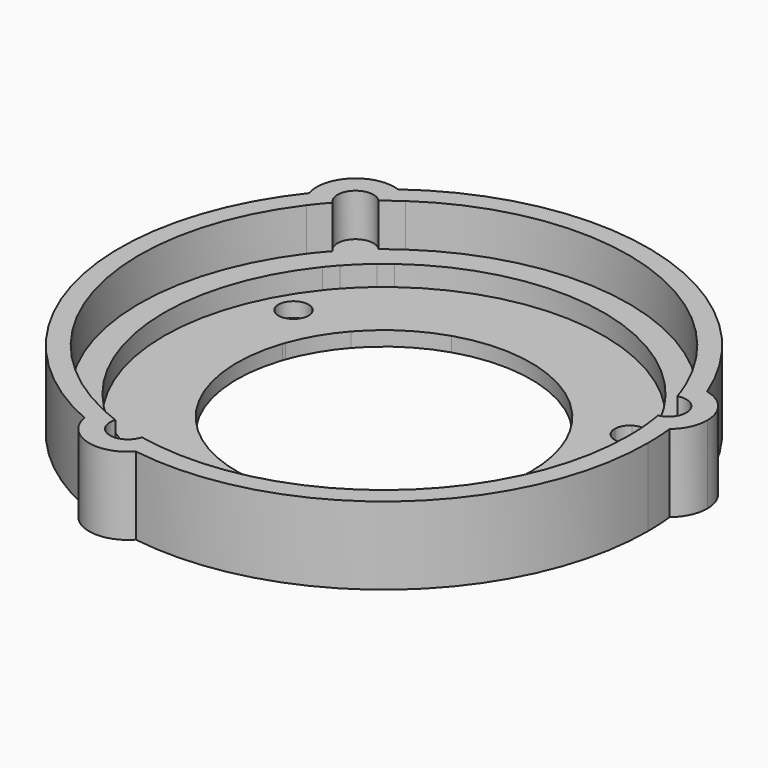
from build123d import *

# Parameters (mm, degrees)
F1_DEPTH = 8
F2_DEPTH = 3.6
F3_DEPTH = 1.5


with BuildPart() as f1:
    # F0 (on Top) → F1 (new body)
    with BuildSketch(Plane.XY):
        with BuildLine():
            ThreePointArc((27.0364767247, 2.9780742632), (26.1341223039, 2.4068562861), (25.1127851839, 2.0947602024))
            ThreePointArc((25.1127851839, 2.0947602024), (25.1781868552, 1.0482874999), (25.2, 0))
            ThreePointArc((25.2, 0), (16.6941580485, -18.8771048376), (-3.0813561151, -25.0109025125))
            ThreePointArc((-3.0813561151, -25.0109025125), (-3.4334013112, -26.0191671891), (-4.0396855828, -26.898344566))
            ThreePointArc((-4.0396855828, -26.898344566), (17.7476836819, -20.6121256528), (27.2, 0))
            ThreePointArc((27.2, 0), (27.1590884136, 1.4912801698), (27.0364767247, 2.9780742632))
        make_face()
        with BuildLine():
            ThreePointArc((24.8423019408, 4.2308432119), (25.0003678986, 3.1656918572), (25.1127851839, 2.0947602024))
            ThreePointArc((25.1127851839, 2.0947602024), (26.1341223039, 2.4068562861), (27.0364767247, 2.9780742632))
            ThreePointArc((27.0364767247, 2.9780742632), (26.4066351326, 6.5214738344), (25.3144925053, 9.950701945))
            ThreePointArc((25.3144925053, 9.950701945), (24.2499604267, 10.0361708376), (23.200755005, 9.8369185825))
            ThreePointArc((23.200755005, 9.8369185825), (23.5998169521, 8.8367776835), (23.9557875207, 7.8205015352))
            ThreePointArc((23.9557875207, 7.8205015352), (25.5786383656, 7.5191959001), (26.3149707846, 6.0419536996))
            ThreePointArc((26.3149707846, 6.0419536996), (25.900338793, 4.8748124568), (24.8423019408, 4.2308432119))
        make_face()
        with BuildLine():
            ThreePointArc((-14.3705081421, 20.7009298279), (7, 24.2082630521), (23.200755005, 9.8369185825))
            ThreePointArc((23.200755005, 9.8369185825), (24.2499604267, 10.0361708376), (25.3144925053, 9.950701945))
            ThreePointArc((25.3144925053, 9.950701945), (7.5555555556, 26.1295537705), (-16.0973263286, 21.9252385408))
            ThreePointArc((-16.0973263286, 21.9252385408), (-15.1514598389, 21.4293856778), (-14.3705081421, 20.7009298279))
        make_face()
        with BuildLine():
            ThreePointArc((25.3144925053, 9.950701945), (26.4066351326, 6.5214738344), (27.0364767247, 2.9780742632))
            ThreePointArc((27.0364767247, 2.9780742632), (28.0902999945, 4.3516909626), (28.4649707846, 6.0419536996))
            ThreePointArc((28.4649707846, 6.0419536996), (27.5792995151, 8.552124323), (25.3144925053, 9.950701945))
        make_face()
        with BuildLine():
            ThreePointArc((-16.0851686713, 19.3986429633), (-15.2417535182, 20.0681077755), (-14.3705081421, 20.7009298279))
            ThreePointArc((-14.3705081421, 20.7009298279), (-15.1514598389, 21.4293856778), (-16.0973263286, 21.9252385408))
            ThreePointArc((-16.0973263286, 21.9252385408), (-18.8510795771, 19.6080799361), (-21.2748069225, 16.947642621))
            ThreePointArc((-21.2748069225, 16.947642621), (-20.8165591154, 15.9829963515), (-20.1193988899, 15.1739839301))
            ThreePointArc((-20.1193988899, 15.1739839301), (-19.4527824376, 16.0196521634), (-18.7506467602, 16.836069793))
            ThreePointArc((-18.7506467602, 16.836069793), (-18.7471214176, 19.4999471423), (-16.0851686713, 19.3986429633))
        make_face()
        with BuildLine():
            ThreePointArc((-4.0396855828, -26.898344566), (-3.4334013112, -26.0191671891), (-3.0813561151, -25.0109025125))
            ThreePointArc((-3.0813561151, -25.0109025125), (-4.1470345145, -24.8564298469), (-5.2051407605, -24.6565713282))
            ThreePointArc((-5.2051407605, -24.6565713282), (-7.5138888889, -25.9854569666), (-8.7571332695, -23.6294861751))
            ThreePointArc((-8.7571332695, -23.6294861751), (-9.7586143804, -23.2337996328), (-10.7422770419, -22.7956900303))
            ThreePointArc((-10.7422770419, -22.7956900303), (-10.982662465, -23.8362419638), (-10.939150396, -24.903312804))
            ThreePointArc((-10.939150396, -24.903312804), (-7.5555555556, -26.1295537705), (-4.0396855828, -26.898344566))
        make_face()
        with BuildLine():
            ThreePointArc((-21.2748069225, 16.947642621), (-18.8510795771, 19.6080799361), (-16.0973263286, 21.9252385408))
            ThreePointArc((-16.0973263286, 21.9252385408), (-20.2371883695, 21.0498505196), (-21.2748069225, 16.947642621))
        make_face()
        with BuildLine():
            ThreePointArc((-10.939150396, -24.903312804), (-8.1111111111, -28.0508444889), (-4.0396855828, -26.898344566))
            ThreePointArc((-4.0396855828, -26.898344566), (-7.5555555556, -26.1295537705), (-10.939150396, -24.903312804))
        make_face()
        with BuildLine():
            ThreePointArc((-20.1193988899, 15.1739839301), (-20.8165591154, 15.9829963515), (-21.2748069225, 16.947642621))
            ThreePointArc((-21.2748069225, 16.947642621), (-26.4066351326, -6.5214738344), (-10.939150396, -24.903312804))
            ThreePointArc((-10.939150396, -24.903312804), (-10.982662465, -23.8362419638), (-10.7422770419, -22.7956900303))
            ThreePointArc((-10.7422770419, -22.7956900303), (-24.4649707846, -6.0419536996), (-20.1193988899, 15.1739839301))
        make_face()
    extrude(amount=F1_DEPTH)

    # F0 (on Top) → F2 (join)
    with BuildSketch(Plane.XY):
        with BuildLine():
            ThreePointArc((-10.7422770419, -22.7956900303), (-10.0639016887, -21.6367836254), (-9.0402136666, -20.767692141))
            ThreePointArc((-9.0402136666, -20.767692141), (-21.9893487409, -5.4305655276), (-17.6689202587, 14.1715121597))
            ThreePointArc((-17.6689202587, 14.1715121597), (-18.97950636, 14.4641232428), (-20.1193988899, 15.1739839301))
            ThreePointArc((-20.1193988899, 15.1739839301), (-24.4649707846, -6.0419536996), (-10.7422770419, -22.7956900303))
        make_face()
        with BuildLine():
            ThreePointArc((-17.6689202587, 14.1715121597), (-17.2155454564, 14.718950188), (-16.745216364, 15.2518926342))
            Line((-16.745216364, 15.2518926342), (-17.0214146599, 16.3702698307))
            ThreePointArc((-17.0214146599, 16.3702698307), (-17.9461504413, 16.3799817964), (-18.7506467602, 16.836069793))
            ThreePointArc((-18.7506467602, 16.836069793), (-19.4527824376, 16.0196521634), (-20.1193988899, 15.1739839301))
            ThreePointArc((-20.1193988899, 15.1739839301), (-18.97950636, 14.4641232428), (-17.6689202587, 14.1715121597))
        make_face()
        with BuildLine():
            ThreePointArc((-14.581134659, 17.3324266061), (-14.0300969902, 17.7814194722), (-13.4652421387, 18.2129007614))
            ThreePointArc((-13.4652421387, 18.2129007614), (-13.7060534314, 19.5339863363), (-14.3705081421, 20.7009298279))
            ThreePointArc((-14.3705081421, 20.7009298279), (-15.2417535182, 20.0681077755), (-16.0851686713, 19.3986429633))
            ThreePointArc((-16.0851686713, 19.3986429633), (-15.7365128144, 18.8258038902), (-15.6149707846, 18.1663093525))
            ThreePointArc((-15.6149707846, 18.1663093525), (-15.6332627372, 17.9067989885), (-15.6877768701, 17.6524204637))
            Line((-15.6877768701, 17.6524204637), (-14.581134659, 17.3324266061))
        make_face()
        with BuildLine():
            ThreePointArc((-16.745216364, 15.2518926342), (-15.6976820743, 16.3280518585), (-14.581134659, 17.3324266061))
            Line((-14.581134659, 17.3324266061), (-15.6877768701, 17.6524204637))
            ThreePointArc((-15.6877768701, 17.6524204637), (-16.1828201516, 16.8326715628), (-17.0214146599, 16.3702698307))
            Line((-17.0214146599, 16.3702698307), (-16.745216364, 15.2518926342))
        make_face()
        with BuildLine():
            ThreePointArc((-17.0214146599, 16.3702698307), (-16.1828201516, 16.8326715628), (-15.6877768701, 17.6524204637))
            Line((-15.6877768701, 17.6524204637), (-17.4649707846, 18.1663093525))
            Line((-17.4649707846, 18.1663093525), (-17.0214146599, 16.3702698307))
        make_face()
        with BuildLine():
            ThreePointArc((-18.7506467602, 16.836069793), (-17.9461504413, 16.3799817964), (-17.0214146599, 16.3702698307))
            Line((-17.0214146599, 16.3702698307), (-17.4649707846, 18.1663093525))
            ThreePointArc((-17.4649707846, 18.1663093525), (-18.1200199464, 17.5129916673), (-18.7506467602, 16.836069793))
        make_face()
        with BuildLine():
            Line((-17.4649707846, 18.1663093525), (-15.6877768701, 17.6524204637))
            ThreePointArc((-15.6877768701, 17.6524204637), (-15.6332627372, 17.9067989885), (-15.6149707846, 18.1663093525))
            ThreePointArc((-15.6149707846, 18.1663093525), (-15.7365128144, 18.8258038902), (-16.0851686713, 19.3986429633))
            ThreePointArc((-16.0851686713, 19.3986429633), (-16.7863821567, 18.7951423003), (-17.4649707846, 18.1663093525))
        make_face()
        with BuildLine():
            ThreePointArc((-17.4649707846, 18.1663093525), (-16.7863821567, 18.7951423003), (-16.0851686713, 19.3986429633))
            ThreePointArc((-16.0851686713, 19.3986429633), (-18.7471214176, 19.4999471423), (-18.7506467602, 16.836069793))
            ThreePointArc((-18.7506467602, 16.836069793), (-18.1200199464, 17.5129916673), (-17.4649707846, 18.1663093525))
        make_face()
        with BuildLine():
            ThreePointArc((-13.4652421387, 18.2129007614), (6.2916666667, 21.7586173861), (21.1073496697, 8.2159777216))
            ThreePointArc((21.1073496697, 8.2159777216), (22.0160513518, 9.2046730376), (23.200755005, 9.8369185825))
            ThreePointArc((23.200755005, 9.8369185825), (7, 24.2082630521), (-14.3705081421, 20.7009298279))
            ThreePointArc((-14.3705081421, 20.7009298279), (-13.7060534314, 19.5339863363), (-13.4652421387, 18.2129007614))
        make_face()
        with BuildLine():
            ThreePointArc((21.1073496697, 8.2159777216), (21.3547575081, 7.5496246113), (21.581134659, 6.875836446))
            Line((21.581134659, 6.875836446), (22.6877768701, 6.5558425885))
            ThreePointArc((22.6877768701, 6.5558425885), (23.1585555698, 7.3518312841), (23.9557875207, 7.8205015352))
            ThreePointArc((23.9557875207, 7.8205015352), (23.5998169521, 8.8367776835), (23.200755005, 9.8369185825))
            ThreePointArc((23.200755005, 9.8369185825), (22.0160513518, 9.2046730376), (21.1073496697, 8.2159777216))
        make_face()
        with BuildLine():
            ThreePointArc((23.9557875207, 7.8205015352), (23.1585555698, 7.3518312841), (22.6877768701, 6.5558425885))
            Line((22.6877768701, 6.5558425885), (24.4649707846, 6.0419536996))
            ThreePointArc((24.4649707846, 6.0419536996), (24.2267056534, 6.935901757), (23.9557875207, 7.8205015352))
        make_face()
        with BuildLine():
            ThreePointArc((22.6877768701, 6.5558425885), (22.6689312627, 5.5983975748), (23.1313329949, 4.7598030666))
            Line((23.1313329949, 4.7598030666), (24.4649707846, 6.0419536996))
            Line((24.4649707846, 6.0419536996), (22.6877768701, 6.5558425885))
        make_face()
        with BuildLine():
            ThreePointArc((23.9557875207, 7.8205015352), (24.2267056534, 6.935901757), (24.4649707846, 6.0419536996))
            ThreePointArc((24.4649707846, 6.0419536996), (24.6702617782, 5.1398622351), (24.8423019408, 4.2308432119))
            ThreePointArc((24.8423019408, 4.2308432119), (25.900338793, 4.8748124568), (26.3149707846, 6.0419536996))
            ThreePointArc((26.3149707846, 6.0419536996), (25.5786383656, 7.5191959001), (23.9557875207, 7.8205015352))
        make_face()
        with BuildLine():
            ThreePointArc((21.581134659, 6.875836446), (21.9893487409, 5.4305655276), (22.3008890796, 3.9614197276))
            Line((22.3008890796, 3.9614197276), (23.1313329949, 4.7598030666))
            ThreePointArc((23.1313329949, 4.7598030666), (22.6689312627, 5.5983975748), (22.6877768701, 6.5558425885))
            Line((22.6877768701, 6.5558425885), (21.581134659, 6.875836446))
        make_face()
        with BuildLine():
            Line((24.4649707846, 6.0419536996), (23.1313329949, 4.7598030666))
            ThreePointArc((23.1313329949, 4.7598030666), (23.9185458343, 4.2744923072), (24.8423019408, 4.2308432119))
            ThreePointArc((24.8423019408, 4.2308432119), (24.6702617782, 5.1398622351), (24.4649707846, 6.0419536996))
        make_face()
        with BuildLine():
            Line((23.1313329949, 4.7598030666), (22.3008890796, 3.9614197276))
            ThreePointArc((22.3008890796, 3.9614197276), (22.4142094734, 3.259710675), (22.5054558054, 2.5547913796))
            ThreePointArc((22.5054558054, 2.5547913796), (23.7699551202, 2.1027972891), (25.1127851839, 2.0947602024))
            ThreePointArc((25.1127851839, 2.0947602024), (25.0003678986, 3.1656918572), (24.8423019408, 4.2308432119))
            ThreePointArc((24.8423019408, 4.2308432119), (23.9185458343, 4.2744923072), (23.1313329949, 4.7598030666))
        make_face()
        with BuildLine():
            ThreePointArc((25.1127851839, 2.0947602024), (23.7699551202, 2.1027972891), (22.5054558054, 2.5547913796))
            ThreePointArc((22.5054558054, 2.5547913796), (22.6138350793, 1.2794385504), (22.65, 0))
            ThreePointArc((22.65, 0), (14.7502893843, -17.1887016112), (-3.438429411, -22.3874898813))
            ThreePointArc((-3.438429411, -22.3874898813), (-3.11115169, -23.2718556504), (-3, -24.2082630521))
            ThreePointArc((-3, -24.2082630521), (-3.0203910029, -24.6116390928), (-3.0813561151, -25.0109025125))
            ThreePointArc((-3.0813561151, -25.0109025125), (16.6941580485, -18.8771048376), (25.2, 0))
            ThreePointArc((25.2, 0), (25.1781868552, 1.0482874999), (25.1127851839, 2.0947602024))
        make_face()
        with BuildLine():
            ThreePointArc((-3, -24.2082630521), (-3.11115169, -23.2718556504), (-3.438429411, -22.3874898813))
            ThreePointArc((-3.438429411, -22.3874898813), (-4.1392120516, -22.2685747993), (-4.835918295, -22.1277290801))
            Line((-4.835918295, -22.1277290801), (-5.6663622102, -22.9261124191))
            ThreePointArc((-5.6663622102, -22.9261124191), (-5.2839391166, -23.5171515962), (-5.15, -24.2082630521))
            ThreePointArc((-5.15, -24.2082630521), (-5.1638369363, -24.4341063683), (-5.2051407605, -24.6565713282))
            ThreePointArc((-5.2051407605, -24.6565713282), (-4.1470345145, -24.8564298469), (-3.0813561151, -25.0109025125))
            ThreePointArc((-3.0813561151, -25.0109025125), (-3.0203910029, -24.6116390928), (-3, -24.2082630521))
        make_face()
        with BuildLine():
            Line((-5.6663622102, -22.9261124191), (-4.835918295, -22.1277290801))
            ThreePointArc((-4.835918295, -22.1277290801), (-6.2916666667, -21.7586173861), (-7.7197544207, -21.2938463337))
            Line((-7.7197544207, -21.2938463337), (-7.4435561248, -22.4122235302))
            ThreePointArc((-7.4435561248, -22.4122235302), (-6.4861111111, -22.4310691376), (-5.6663622102, -22.9261124191))
        make_face()
        with BuildLine():
            Line((-7.4435561248, -22.4122235302), (-7.7197544207, -21.2938463337))
            ThreePointArc((-7.7197544207, -21.2938463337), (-8.3841124832, -21.0411301472), (-9.0402136666, -20.767692141))
            ThreePointArc((-9.0402136666, -20.767692141), (-10.0639016887, -21.6367836254), (-10.7422770419, -22.7956900303))
            ThreePointArc((-10.7422770419, -22.7956900303), (-9.7586143804, -23.2337996328), (-8.7571332695, -23.6294861751))
            ThreePointArc((-8.7571332695, -23.6294861751), (-8.2574539909, -22.8513144677), (-7.4435561248, -22.4122235302))
        make_face()
        with BuildLine():
            Line((-7, -24.2082630521), (-7.4435561248, -22.4122235302))
            ThreePointArc((-7.4435561248, -22.4122235302), (-8.2574539909, -22.8513144677), (-8.7571332695, -23.6294861751))
            ThreePointArc((-8.7571332695, -23.6294861751), (-7.8838796215, -23.9350045355), (-7, -24.2082630521))
        make_face()
        with BuildLine():
            Line((-7, -24.2082630521), (-5.6663622102, -22.9261124191))
            ThreePointArc((-5.6663622102, -22.9261124191), (-6.4861111111, -22.4310691376), (-7.4435561248, -22.4122235302))
            Line((-7.4435561248, -22.4122235302), (-7, -24.2082630521))
        make_face()
        with BuildLine():
            ThreePointArc((-5.15, -24.2082630521), (-5.2839391166, -23.5171515962), (-5.6663622102, -22.9261124191))
            Line((-5.6663622102, -22.9261124191), (-7, -24.2082630521))
            ThreePointArc((-7, -24.2082630521), (-6.106685707, -24.4488934244), (-5.2051407605, -24.6565713282))
            ThreePointArc((-5.2051407605, -24.6565713282), (-5.1638369363, -24.4341063683), (-5.15, -24.2082630521))
        make_face()
        with BuildLine():
            ThreePointArc((-8.7571332695, -23.6294861751), (-7.5138888889, -25.9854569666), (-5.2051407605, -24.6565713282))
            ThreePointArc((-5.2051407605, -24.6565713282), (-6.106685707, -24.4488934244), (-7, -24.2082630521))
            ThreePointArc((-7, -24.2082630521), (-7.8838796215, -23.9350045355), (-8.7571332695, -23.6294861751))
        make_face()
    extrude(amount=F2_DEPTH)

    # F0 (on Top) → F3 (join)
    with BuildSketch(Plane.XY):
        with BuildLine():
            ThreePointArc((27.0364767247, 2.9780742632), (26.1341223039, 2.4068562861), (25.1127851839, 2.0947602024))
            ThreePointArc((25.1127851839, 2.0947602024), (25.1781868552, 1.0482874999), (25.2, 0))
            ThreePointArc((25.2, 0), (16.6941580485, -18.8771048376), (-3.0813561151, -25.0109025125))
            ThreePointArc((-3.0813561151, -25.0109025125), (-3.4334013112, -26.0191671891), (-4.0396855828, -26.898344566))
            ThreePointArc((-4.0396855828, -26.898344566), (17.7476836819, -20.6121256528), (27.2, 0))
            ThreePointArc((27.2, 0), (27.1590884136, 1.4912801698), (27.0364767247, 2.9780742632))
        make_face()
        with BuildLine():
            ThreePointArc((24.8423019408, 4.2308432119), (25.0003678986, 3.1656918572), (25.1127851839, 2.0947602024))
            ThreePointArc((25.1127851839, 2.0947602024), (26.1341223039, 2.4068562861), (27.0364767247, 2.9780742632))
            ThreePointArc((27.0364767247, 2.9780742632), (26.4066351326, 6.5214738344), (25.3144925053, 9.950701945))
            ThreePointArc((25.3144925053, 9.950701945), (24.2499604267, 10.0361708376), (23.200755005, 9.8369185825))
            ThreePointArc((23.200755005, 9.8369185825), (23.5998169521, 8.8367776835), (23.9557875207, 7.8205015352))
            ThreePointArc((23.9557875207, 7.8205015352), (25.5786383656, 7.5191959001), (26.3149707846, 6.0419536996))
            ThreePointArc((26.3149707846, 6.0419536996), (25.900338793, 4.8748124568), (24.8423019408, 4.2308432119))
        make_face()
        with BuildLine():
            ThreePointArc((-14.3705081421, 20.7009298279), (7, 24.2082630521), (23.200755005, 9.8369185825))
            ThreePointArc((23.200755005, 9.8369185825), (24.2499604267, 10.0361708376), (25.3144925053, 9.950701945))
            ThreePointArc((25.3144925053, 9.950701945), (7.5555555556, 26.1295537705), (-16.0973263286, 21.9252385408))
            ThreePointArc((-16.0973263286, 21.9252385408), (-15.1514598389, 21.4293856778), (-14.3705081421, 20.7009298279))
        make_face()
        with BuildLine():
            ThreePointArc((25.3144925053, 9.950701945), (26.4066351326, 6.5214738344), (27.0364767247, 2.9780742632))
            ThreePointArc((27.0364767247, 2.9780742632), (28.0902999945, 4.3516909626), (28.4649707846, 6.0419536996))
            ThreePointArc((28.4649707846, 6.0419536996), (27.5792995151, 8.552124323), (25.3144925053, 9.950701945))
        make_face()
        with BuildLine():
            ThreePointArc((-16.0851686713, 19.3986429633), (-15.2417535182, 20.0681077755), (-14.3705081421, 20.7009298279))
            ThreePointArc((-14.3705081421, 20.7009298279), (-15.1514598389, 21.4293856778), (-16.0973263286, 21.9252385408))
            ThreePointArc((-16.0973263286, 21.9252385408), (-18.8510795771, 19.6080799361), (-21.2748069225, 16.947642621))
            ThreePointArc((-21.2748069225, 16.947642621), (-20.8165591154, 15.9829963515), (-20.1193988899, 15.1739839301))
            ThreePointArc((-20.1193988899, 15.1739839301), (-19.4527824376, 16.0196521634), (-18.7506467602, 16.836069793))
            ThreePointArc((-18.7506467602, 16.836069793), (-18.7471214176, 19.4999471423), (-16.0851686713, 19.3986429633))
        make_face()
        with BuildLine():
            ThreePointArc((-4.0396855828, -26.898344566), (-3.4334013112, -26.0191671891), (-3.0813561151, -25.0109025125))
            ThreePointArc((-3.0813561151, -25.0109025125), (-4.1470345145, -24.8564298469), (-5.2051407605, -24.6565713282))
            ThreePointArc((-5.2051407605, -24.6565713282), (-7.5138888889, -25.9854569666), (-8.7571332695, -23.6294861751))
            ThreePointArc((-8.7571332695, -23.6294861751), (-9.7586143804, -23.2337996328), (-10.7422770419, -22.7956900303))
            ThreePointArc((-10.7422770419, -22.7956900303), (-10.982662465, -23.8362419638), (-10.939150396, -24.903312804))
            ThreePointArc((-10.939150396, -24.903312804), (-7.5555555556, -26.1295537705), (-4.0396855828, -26.898344566))
        make_face()
        with BuildLine():
            ThreePointArc((-21.2748069225, 16.947642621), (-18.8510795771, 19.6080799361), (-16.0973263286, 21.9252385408))
            ThreePointArc((-16.0973263286, 21.9252385408), (-20.2371883695, 21.0498505196), (-21.2748069225, 16.947642621))
        make_face()
        with BuildLine():
            ThreePointArc((-10.939150396, -24.903312804), (-8.1111111111, -28.0508444889), (-4.0396855828, -26.898344566))
            ThreePointArc((-4.0396855828, -26.898344566), (-7.5555555556, -26.1295537705), (-10.939150396, -24.903312804))
        make_face()
        with BuildLine():
            ThreePointArc((-20.1193988899, 15.1739839301), (-20.8165591154, 15.9829963515), (-21.2748069225, 16.947642621))
            ThreePointArc((-21.2748069225, 16.947642621), (-26.4066351326, -6.5214738344), (-10.939150396, -24.903312804))
            ThreePointArc((-10.939150396, -24.903312804), (-10.982662465, -23.8362419638), (-10.7422770419, -22.7956900303))
            ThreePointArc((-10.7422770419, -22.7956900303), (-24.4649707846, -6.0419536996), (-20.1193988899, 15.1739839301))
        make_face()
        with BuildLine():
            Line((-16.5059305148, 14.2829806566), (-16.745216364, 15.2518926342))
            ThreePointArc((-16.745216364, 15.2518926342), (-17.2155454564, 14.718950188), (-17.6689202587, 14.1715121597))
            ThreePointArc((-17.6689202587, 14.1715121597), (-17.0833337399, 14.1845568281), (-16.5059305148, 14.2829806566))
        make_face()
        with BuildLine():
            Line((-13.6223893478, 17.0551982414), (-14.581134659, 17.3324266061))
            ThreePointArc((-14.581134659, 17.3324266061), (-15.6976820743, 16.3280518585), (-16.745216364, 15.2518926342))
            Line((-16.745216364, 15.2518926342), (-16.5059305148, 14.2829806566))
            ThreePointArc((-16.5059305148, 14.2829806566), (-14.6927531998, 15.2827681855), (-13.6223893478, 17.0551982414))
        make_face()
        with BuildLine():
            ThreePointArc((-13.4649707846, 18.1663093525), (-13.4650386237, 18.1896054521), (-13.4652421387, 18.2129007614))
            ThreePointArc((-13.4652421387, 18.2129007614), (-14.0300969902, 17.7814194722), (-14.581134659, 17.3324266061))
            Line((-14.581134659, 17.3324266061), (-13.6223893478, 17.0551982414))
            ThreePointArc((-13.6223893478, 17.0551982414), (-13.5045209524, 17.6052058627), (-13.4649707846, 18.1663093525))
        make_face()
        with BuildLine():
            ThreePointArc((18.0429103508, 8.628637556), (18.2366049524, 8.2113482334), (18.4206502026, 7.7897141226))
            Line((18.4206502026, 7.7897141226), (20.6223893478, 7.1530648107))
            ThreePointArc((20.6223893478, 7.1530648107), (20.8258534245, 7.7023225861), (21.1073496697, 8.2159777216))
            ThreePointArc((21.1073496697, 8.2159777216), (6.2916666667, 21.7586173861), (-13.4652421387, 18.2129007614))
            ThreePointArc((-13.4652421387, 18.2129007614), (-13.4650386237, 18.1896054521), (-13.4649707846, 18.1663093525))
            ThreePointArc((-13.4649707846, 18.1663093525), (-13.5045209524, 17.6052058627), (-13.6223893478, 17.0551982414))
            Line((-13.6223893478, 17.0551982414), (-11.4206502026, 16.4185489295))
            ThreePointArc((-11.4206502026, 16.4185489295), (3.5994314235, 19.6734362384), (16.4940744989, 11.311299944))
            ThreePointArc((16.4940744989, 11.311299944), (18.0693498333, 11.357105752), (18.8705080757, 10))
            ThreePointArc((18.8705080757, 10), (18.6475769372, 9.199132822), (18.0429103508, 8.628637556))
        make_face()
        with BuildLine():
            ThreePointArc((-15.9564154197, 12.0578939684), (-13.8610879243, 14.4177058354), (-11.4206502026, 16.4185489295))
            Line((-11.4206502026, 16.4185489295), (-13.6223893478, 17.0551982414))
            ThreePointArc((-13.6223893478, 17.0551982414), (-14.6927531998, 15.2827681855), (-16.5059305148, 14.2829806566))
            Line((-16.5059305148, 14.2829806566), (-15.9564154197, 12.0578939684))
        make_face()
        with BuildLine():
            Line((-7.9590402698, -20.3249343561), (-8.5085553649, -18.0998476679))
            ThreePointArc((-8.5085553649, -18.0998476679), (-18.837411274, -6.7195190673), (-18.0429103508, 8.628637556))
            ThreePointArc((-18.0429103508, 8.628637556), (-18.6628474516, 10.775), (-16.4940744989, 11.311299944))
            ThreePointArc((-16.4940744989, 11.311299944), (-16.2295386456, 11.6876890509), (-15.9564154197, 12.0578939684))
            Line((-15.9564154197, 12.0578939684), (-16.5059305148, 14.2829806566))
            ThreePointArc((-16.5059305148, 14.2829806566), (-17.0833337399, 14.1845568281), (-17.6689202587, 14.1715121597))
            ThreePointArc((-17.6689202587, 14.1715121597), (-21.9893487409, -5.4305655276), (-9.0402136666, -20.767692141))
            ThreePointArc((-9.0402136666, -20.767692141), (-8.5158791699, -20.5066268811), (-7.9590402698, -20.3249343561))
        make_face()
        with BuildLine():
            ThreePointArc((-18.0429103508, 8.628637556), (-18.837411274, -6.7195190673), (-8.5085553649, -18.0998476679))
            Line((-8.5085553649, -18.0998476679), (-10.2156129312, -11.1876607224))
            ThreePointArc((-10.2156129312, -11.1876607224), (-14.6705679763, -3.7811288332), (-14.3506516514, 4.8560577819))
            Line((-14.3506516514, 4.8560577819), (-16.5455080757, 8.6576606241))
            ThreePointArc((-16.5455080757, 8.6576606241), (-17.2904711853, 8.4502910644), (-18.0429103508, 8.628637556))
        make_face()
        with BuildLine():
            ThreePointArc((-14.3506516514, 4.8560577819), (-14.300738096, 5.0011388614), (-14.2493578534, 5.1457070229))
            Line((-14.2493578534, 5.1457070229), (-15.4481908163, 10))
            Line((-15.4481908163, 10), (-15.7705080757, 10))
            ThreePointArc((-15.7705080757, 10), (-15.9781686998, 9.225), (-16.5455080757, 8.6576606241))
            Line((-16.5455080757, 8.6576606241), (-14.3506516514, 4.8560577819))
        make_face()
        with BuildLine():
            Line((-15.4481908163, 10), (-15.9564154197, 12.0578939684))
            ThreePointArc((-15.9564154197, 12.0578939684), (-16.2295386456, 11.6876890509), (-16.4940744989, 11.311299944))
            ThreePointArc((-16.4940744989, 11.311299944), (-15.9634023237, 10.7488417577), (-15.7705080757, 10))
            Line((-15.7705080757, 10), (-15.4481908163, 10))
        make_face()
        with BuildLine():
            Line((-4.5809919289, 14.4408106749), (-11.4206502026, 16.4185489295))
            ThreePointArc((-11.4206502026, 16.4185489295), (-13.8610879243, 14.4177058354), (-15.9564154197, 12.0578939684))
            Line((-15.9564154197, 12.0578939684), (-15.4481908163, 10))
            Line((-15.4481908163, 10), (-11.380795227, 10))
            ThreePointArc((-11.380795227, 10), (-8.2840124436, 12.6845432647), (-4.5809919289, 14.4408106749))
        make_face()
        with BuildLine():
            ThreePointArc((-14.2493578534, 5.1457070229), (-13.0428994786, 7.7074816374), (-11.380795227, 10))
            Line((-11.380795227, 10), (-15.4481908163, 10))
            Line((-15.4481908163, 10), (-14.2493578534, 5.1457070229))
        make_face()
        with BuildLine():
            ThreePointArc((15.7705080757, 10), (15.9634023237, 10.7488417577), (16.4940744989, 11.311299944))
            ThreePointArc((16.4940744989, 11.311299944), (3.5994314235, 19.6734362384), (-11.4206502026, 16.4185489295))
            Line((-11.4206502026, 16.4185489295), (-4.5809919289, 14.4408106749))
            ThreePointArc((-4.5809919289, 14.4408106749), (4.0607303636, 14.595648972), (11.380795227, 10))
            Line((11.380795227, 10), (15.7705080757, 10))
        make_face()
        with BuildLine():
            Line((11.5809919289, 9.7674523773), (16.384349446, 8.3785256894))
            Line((16.384349446, 8.3785256894), (16.5455080757, 8.6576606241))
            ThreePointArc((16.5455080757, 8.6576606241), (15.9781686998, 9.225), (15.7705080757, 10))
            Line((15.7705080757, 10), (11.380795227, 10))
            ThreePointArc((11.380795227, 10), (11.4814823498, 9.8842330533), (11.5809919289, 9.7674523773))
        make_face()
        with BuildLine():
            Line((16.384349446, 8.3785256894), (18.4206502026, 7.7897141226))
            ThreePointArc((18.4206502026, 7.7897141226), (18.2366049524, 8.2113482334), (18.0429103508, 8.628637556))
            ThreePointArc((18.0429103508, 8.628637556), (17.2904711853, 8.4502910644), (16.5455080757, 8.6576606241))
            Line((16.5455080757, 8.6576606241), (16.384349446, 8.3785256894))
        make_face()
        with BuildLine():
            Line((14.7966048601, -3.2531499524), (19.9292055675, 1.6812987385))
            ThreePointArc((19.9292055675, 1.6812987385), (19.4166434799, 4.7952013489), (18.4206502026, 7.7897141226))
            Line((18.4206502026, 7.7897141226), (16.384349446, 8.3785256894))
            Line((16.384349446, 8.3785256894), (14.3506516514, 4.8560577819))
            ThreePointArc((14.3506516514, 4.8560577819), (14.9488272536, 2.4607039117), (15.15, 0))
            ThreePointArc((15.15, 0), (15.0613920942, -1.6361443043), (14.7966048601, -3.2531499524))
        make_face()
        with BuildLine():
            Line((14.3506516514, 4.8560577819), (16.384349446, 8.3785256894))
            Line((16.384349446, 8.3785256894), (11.5809919289, 9.7674523773))
            ThreePointArc((11.5809919289, 9.7674523773), (13.1963246365, 7.4417414688), (14.3506516514, 4.8560577819))
        make_face()
        with BuildLine():
            ThreePointArc((21.1073496697, 8.2159777216), (20.8258534245, 7.7023225861), (20.6223893478, 7.1530648107))
            Line((20.6223893478, 7.1530648107), (21.581134659, 6.875836446))
            ThreePointArc((21.581134659, 6.875836446), (21.3547575081, 7.5496246113), (21.1073496697, 8.2159777216))
        make_face()
        with BuildLine():
            ThreePointArc((20.6223893478, 7.1530648107), (20.5816420886, 5.0829134298), (21.5814296176, 3.2697361147))
            Line((21.5814296176, 3.2697361147), (22.3008890796, 3.9614197276))
            ThreePointArc((22.3008890796, 3.9614197276), (21.9893487409, 5.4305655276), (21.581134659, 6.875836446))
            Line((21.581134659, 6.875836446), (20.6223893478, 7.1530648107))
        make_face()
        with BuildLine():
            Line((22.3008890796, 3.9614197276), (21.5814296176, 3.2697361147))
            ThreePointArc((21.5814296176, 3.2697361147), (22.0171994099, 2.8783457439), (22.5054558054, 2.5547913796))
            ThreePointArc((22.5054558054, 2.5547913796), (22.4142094734, 3.259710675), (22.3008890796, 3.9614197276))
        make_face()
        with BuildLine():
            ThreePointArc((19.9292055675, 1.6812987385), (19.9822935539, 0.8413942744), (20, 0))
            ThreePointArc((20, 0), (14.6795217401, -13.5835062293), (1.5488358519, -19.9399375))
            ThreePointArc((1.5488358519, -19.9399375), (1.5497089356, -19.9699631096), (1.55, -20))
            ThreePointArc((1.55, -20), (-0.0300368904, -21.5497089356), (-1.5488358519, -19.9399375))
            ThreePointArc((-1.5488358519, -19.9399375), (-2.0070663068, -19.8990372843), (-2.4642347829, -19.847608091))
            Line((-2.4642347829, -19.847608091), (-4.1164588329, -21.4360454672))
            ThreePointArc((-4.1164588329, -21.4360454672), (-3.7425196846, -21.8868794141), (-3.438429411, -22.3874898813))
            ThreePointArc((-3.438429411, -22.3874898813), (14.7502893843, -17.1887016112), (22.65, 0))
            ThreePointArc((22.65, 0), (22.6138350793, 1.2794385504), (22.5054558054, 2.5547913796))
            ThreePointArc((22.5054558054, 2.5547913796), (22.0171994099, 2.8783457439), (21.5814296176, 3.2697361147))
            Line((21.5814296176, 3.2697361147), (19.9292055675, 1.6812987385))
        make_face()
        with BuildLine():
            ThreePointArc((18.4206502026, 7.7897141226), (19.4166434799, 4.7952013489), (19.9292055675, 1.6812987385))
            Line((19.9292055675, 1.6812987385), (21.5814296176, 3.2697361147))
            ThreePointArc((21.5814296176, 3.2697361147), (20.5816420886, 5.0829134298), (20.6223893478, 7.1530648107))
            Line((20.6223893478, 7.1530648107), (18.4206502026, 7.7897141226))
        make_face()
        with BuildLine():
            ThreePointArc((1.5488358519, -19.9399375), (14.6795217401, -13.5835062293), (20, 0))
            ThreePointArc((20, 0), (19.9822935539, 0.8413942744), (19.9292055675, 1.6812987385))
            Line((19.9292055675, 1.6812987385), (14.7966048601, -3.2531499524))
            ThreePointArc((14.7966048601, -3.2531499524), (10.6098376127, -10.8145201388), (2.9698564243, -14.8560577819))
            Line((2.9698564243, -14.8560577819), (0.775, -18.6576606241))
            ThreePointArc((0.775, -18.6576606241), (1.3270688615, -19.199132822), (1.5488358519, -19.9399375))
        make_face()
        with BuildLine():
            Line((-7.7197544207, -21.2938463337), (-7.9590402698, -20.3249343561))
            ThreePointArc((-7.9590402698, -20.3249343561), (-8.5158791699, -20.5066268811), (-9.0402136666, -20.767692141))
            ThreePointArc((-9.0402136666, -20.767692141), (-8.3841124832, -21.0411301472), (-7.7197544207, -21.2938463337))
        make_face()
        with BuildLine():
            Line((-4.835918295, -22.1277290801), (-4.1164588329, -21.4360454672))
            ThreePointArc((-4.1164588329, -21.4360454672), (-5.8888888889, -20.3656816153), (-7.9590402698, -20.3249343561))
            Line((-7.9590402698, -20.3249343561), (-7.7197544207, -21.2938463337))
            ThreePointArc((-7.7197544207, -21.2938463337), (-6.2916666667, -21.7586173861), (-4.835918295, -22.1277290801))
        make_face()
        with BuildLine():
            ThreePointArc((-4.835918295, -22.1277290801), (-4.1392120516, -22.2685747993), (-3.438429411, -22.3874898813))
            ThreePointArc((-3.438429411, -22.3874898813), (-3.7425196846, -21.8868794141), (-4.1164588329, -21.4360454672))
            Line((-4.1164588329, -21.4360454672), (-4.835918295, -22.1277290801))
        make_face()
        with BuildLine():
            ThreePointArc((-2.4642347829, -19.847608091), (-2.0070663068, -19.8990372843), (-1.5488358519, -19.9399375))
            ThreePointArc((-1.5488358519, -19.9399375), (-1.3270688615, -19.199132822), (-0.775, -18.6576606241))
            Line((-0.775, -18.6576606241), (-0.9361586297, -18.3785256894))
            Line((-0.9361586297, -18.3785256894), (-2.4642347829, -19.847608091))
        make_face()
        with BuildLine():
            ThreePointArc((-0.775, -18.6576606241), (0, -18.45), (0.775, -18.6576606241))
            Line((0.775, -18.6576606241), (2.9698564243, -14.8560577819))
            ThreePointArc((2.9698564243, -14.8560577819), (2.8192557462, -14.8853719147), (2.6683659245, -14.9131594001))
            Line((2.6683659245, -14.9131594001), (-0.9361586297, -18.3785256894))
            Line((-0.9361586297, -18.3785256894), (-0.775, -18.6576606241))
        make_face()
        with BuildLine():
            ThreePointArc((-8.5085553649, -18.0998476679), (-5.5555555556, -19.2129071842), (-2.4642347829, -19.847608091))
            Line((-2.4642347829, -19.847608091), (-0.9361586297, -18.3785256894))
            Line((-0.9361586297, -18.3785256894), (-2.9698564243, -14.8560577819))
            ThreePointArc((-2.9698564243, -14.8560577819), (-6.8431304808, -13.5164368538), (-10.2156129312, -11.1876607224))
            Line((-10.2156129312, -11.1876607224), (-8.5085553649, -18.0998476679))
        make_face()
        with BuildLine():
            Line((-0.9361586297, -18.3785256894), (2.6683659245, -14.9131594001))
            ThreePointArc((2.6683659245, -14.9131594001), (-0.1534251579, -15.1492231062), (-2.9698564243, -14.8560577819))
            Line((-2.9698564243, -14.8560577819), (-0.9361586297, -18.3785256894))
        make_face()
        with BuildLine():
            Line((-4.1164588329, -21.4360454672), (-2.4642347829, -19.847608091))
            ThreePointArc((-2.4642347829, -19.847608091), (-5.5555555556, -19.2129071842), (-8.5085553649, -18.0998476679))
            Line((-8.5085553649, -18.0998476679), (-7.9590402698, -20.3249343561))
            ThreePointArc((-7.9590402698, -20.3249343561), (-5.8888888889, -20.3656816153), (-4.1164588329, -21.4360454672))
        make_face()
    extrude(amount=F3_DEPTH)


solid = f1.part
